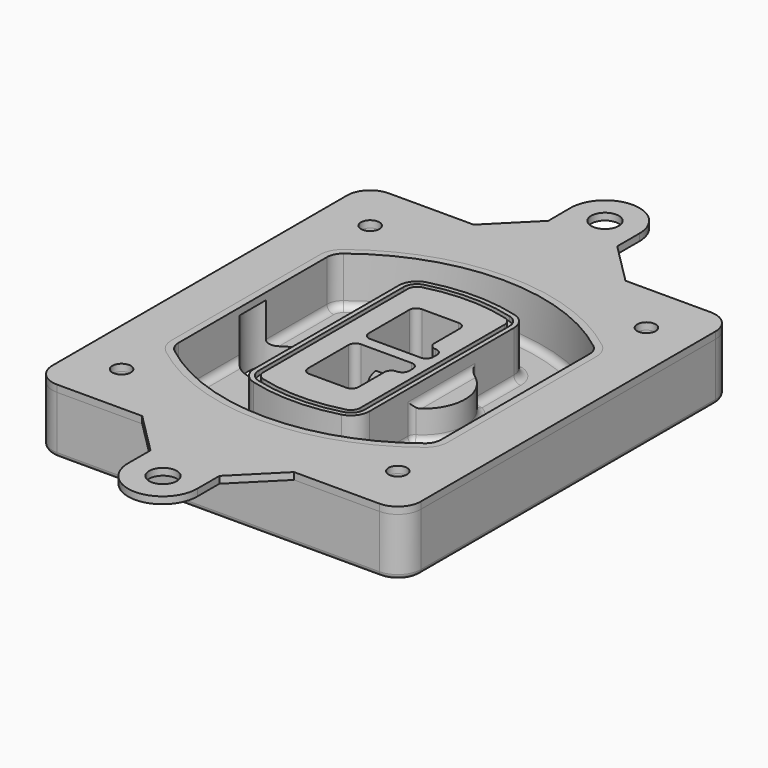
from build123d import *

# Parameters (mm, degrees)
F0_R      = 4
F1_DEPTH  = 25
F2_DEPTH  = 3
F3_DEPTH  = 18
F5_DEPTH  = 21
F6_DEPTH  = 2
F8_DEPTH  = 20
F9_DEPTH  = 16
F10_DEPTH = 25
F7_R      = 6
F7_R_2    = 4
F11_DEPTH = 6
F13_DEPTH = 9
F14_R     = 3
F15_R     = 2
F16_R     = 4
F16_R_2   = 6
F17_DEPTH = 3


with BuildPart() as f1:
    # F0 (on Top) → F1 (new body)
    with BuildSketch(Plane.XY):
        with BuildLine():
            ThreePointArc((-80, -80), (-77.0710678119, -87.0710678119), (-70, -90))
            Line((-70, -90), (70, -90))
            ThreePointArc((70, -90), (77.0710678119, -87.0710678119), (80, -80))
            Line((80, -80), (80, 80))
            ThreePointArc((80, 80), (77.0710678119, 87.0710678119), (70, 90))
            Line((70, 90), (-70, 90))
            ThreePointArc((-70, 90), (-77.0710678119, 87.0710678119), (-80, 80))
            Line((-80, 80), (-80, -80))
        make_face()
        with Locations((-60, -67.5)):
            Circle(F0_R, mode=Mode.SUBTRACT)
        with Locations((60, -67.5)):
            Circle(F0_R, mode=Mode.SUBTRACT)
        with Locations((-60, 67.5)):
            Circle(F0_R, mode=Mode.SUBTRACT)
        with BuildLine():
            ThreePointArc((-64, 40.2934422872), (-62.5820384798, 46.4328484224), (-58.6153846154, 51.3286200352))
            ThreePointArc((-58.6153846154, 51.3286200352), (0, 71.5), (58.6153846154, 51.3286200352))
            ThreePointArc((58.6153846154, 51.3286200352), (62.5820384798, 46.4328484224), (64, 40.2934422872))
            Line((64, 40.2934422872), (64, -40.2934422872))
            ThreePointArc((64, -40.2934422872), (62.5820384798, -46.4328484224), (58.6153846154, -51.3286200352))
            ThreePointArc((58.6153846154, -51.3286200352), (0, -71.5), (-58.6153846154, -51.3286200352))
            ThreePointArc((-58.6153846154, -51.3286200352), (-62.5820384798, -46.4328484224), (-64, -40.2934422872))
            Line((-64, -40.2934422872), (-64, 40.2934422872))
        make_face(mode=Mode.SUBTRACT)
        with Locations((60, 67.5)):
            Circle(F0_R, mode=Mode.SUBTRACT)
        with BuildLine():
            ThreePointArc((58.6153846154, 51.3286200352), (0, 71.5), (-58.6153846154, 51.3286200352))
            ThreePointArc((-58.6153846154, 51.3286200352), (-62.5820384798, 46.4328484224), (-64, 40.2934422872))
            Line((-64, 40.2934422872), (-64, -40.2934422872))
            ThreePointArc((-64, -40.2934422872), (-62.5820384798, -46.4328484224), (-58.6153846154, -51.3286200352))
            ThreePointArc((-58.6153846154, -51.3286200352), (0, -71.5), (58.6153846154, -51.3286200352))
            ThreePointArc((58.6153846154, -51.3286200352), (62.5820384798, -46.4328484224), (64, -40.2934422872))
            Line((64, -40.2934422872), (64, 40.2934422872))
            ThreePointArc((64, 40.2934422872), (62.5820384798, 46.4328484224), (58.6153846154, 51.3286200352))
        make_face()
        with BuildLine():
            Line((-60, -40.2934422872), (-60, 40.2934422872))
            ThreePointArc((-60, 40.2934422872), (-58.9871703427, 44.6787323838), (-56.1538461538, 48.1757121072))
            ThreePointArc((-56.1538461538, 48.1757121072), (0, 67.5), (56.1538461538, 48.1757121072))
            ThreePointArc((56.1538461538, 48.1757121072), (58.9871703427, 44.6787323838), (60, 40.2934422872))
            Line((60, 40.2934422872), (60, -40.2934422872))
            ThreePointArc((60, -40.2934422872), (58.9871703427, -44.6787323838), (56.1538461538, -48.1757121072))
            ThreePointArc((56.1538461538, -48.1757121072), (0, -67.5), (-56.1538461538, -48.1757121072))
            ThreePointArc((-56.1538461538, -48.1757121072), (-58.9871703427, -44.6787323838), (-60, -40.2934422872))
        make_face(mode=Mode.SUBTRACT)
        with BuildLine():
            ThreePointArc((-56.1538461538, 48.1757121072), (-58.9871703427, 44.6787323838), (-60, 40.2934422872))
            Line((-60, 40.2934422872), (-60, -40.2934422872))
            ThreePointArc((-60, -40.2934422872), (-58.9871703427, -44.6787323838), (-56.1538461538, -48.1757121072))
            ThreePointArc((-56.1538461538, -48.1757121072), (0, -67.5), (56.1538461538, -48.1757121072))
            ThreePointArc((56.1538461538, -48.1757121072), (58.9871703427, -44.6787323838), (60, -40.2934422872))
            Line((60, -40.2934422872), (60, 40.2934422872))
            ThreePointArc((60, 40.2934422872), (58.9871703427, 44.6787323838), (56.1538461538, 48.1757121072))
            ThreePointArc((56.1538461538, 48.1757121072), (0, 67.5), (-56.1538461538, 48.1757121072))
        make_face()
        with BuildLine():
            ThreePointArc((54.3076923077, 45.8110311612), (56.2910192399, 43.3631453548), (57, 40.2934422872))
            Line((57, 40.2934422872), (57, -40.2934422872))
            ThreePointArc((57, -40.2934422872), (56.2910192399, -43.3631453548), (54.3076923077, -45.8110311612))
            ThreePointArc((54.3076923077, -45.8110311612), (0, -64.5), (-54.3076923077, -45.8110311612))
            ThreePointArc((-54.3076923077, -45.8110311612), (-56.2910192399, -43.3631453548), (-57, -40.2934422872))
            Line((-57, -40.2934422872), (-57, 40.2934422872))
            ThreePointArc((-57, 40.2934422872), (-56.2910192399, 43.3631453548), (-54.3076923077, 45.8110311612))
            ThreePointArc((-54.3076923077, 45.8110311612), (0, 64.5), (54.3076923077, 45.8110311612))
        make_face(mode=Mode.SUBTRACT)
        with BuildLine():
            Line((57, -40.2934422872), (57, 40.2934422872))
            ThreePointArc((57, 40.2934422872), (56.2910192399, 43.3631453548), (54.3076923077, 45.8110311612))
            ThreePointArc((54.3076923077, 45.8110311612), (0, 64.5), (-54.3076923077, 45.8110311612))
            ThreePointArc((-54.3076923077, 45.8110311612), (-56.2910192399, 43.3631453548), (-57, 40.2934422872))
            Line((-57, 40.2934422872), (-57, -40.2934422872))
            ThreePointArc((-57, -40.2934422872), (-56.2910192399, -43.3631453548), (-54.3076923077, -45.8110311612))
            ThreePointArc((-54.3076923077, -45.8110311612), (0, -64.5), (54.3076923077, -45.8110311612))
            ThreePointArc((54.3076923077, -45.8110311612), (56.2910192399, -43.3631453548), (57, -40.2934422872))
        make_face()
    extrude(amount=-F1_DEPTH)

    # F0 (on Top) → F2 (join)
    with BuildSketch(Plane.XY):
        with BuildLine():
            ThreePointArc((-56.1538461538, 48.1757121072), (-58.9871703427, 44.6787323838), (-60, 40.2934422872))
            Line((-60, 40.2934422872), (-60, -40.2934422872))
            ThreePointArc((-60, -40.2934422872), (-58.9871703427, -44.6787323838), (-56.1538461538, -48.1757121072))
            ThreePointArc((-56.1538461538, -48.1757121072), (0, -67.5), (56.1538461538, -48.1757121072))
            ThreePointArc((56.1538461538, -48.1757121072), (58.9871703427, -44.6787323838), (60, -40.2934422872))
            Line((60, -40.2934422872), (60, 40.2934422872))
            ThreePointArc((60, 40.2934422872), (58.9871703427, 44.6787323838), (56.1538461538, 48.1757121072))
            ThreePointArc((56.1538461538, 48.1757121072), (0, 67.5), (-56.1538461538, 48.1757121072))
        make_face()
        with BuildLine():
            ThreePointArc((54.3076923077, 45.8110311612), (56.2910192399, 43.3631453548), (57, 40.2934422872))
            Line((57, 40.2934422872), (57, -40.2934422872))
            ThreePointArc((57, -40.2934422872), (56.2910192399, -43.3631453548), (54.3076923077, -45.8110311612))
            ThreePointArc((54.3076923077, -45.8110311612), (0, -64.5), (-54.3076923077, -45.8110311612))
            ThreePointArc((-54.3076923077, -45.8110311612), (-56.2910192399, -43.3631453548), (-57, -40.2934422872))
            Line((-57, -40.2934422872), (-57, 40.2934422872))
            ThreePointArc((-57, 40.2934422872), (-56.2910192399, 43.3631453548), (-54.3076923077, 45.8110311612))
            ThreePointArc((-54.3076923077, 45.8110311612), (0, 64.5), (54.3076923077, 45.8110311612))
        make_face(mode=Mode.SUBTRACT)
    extrude(amount=F2_DEPTH)

    # F0 (on Top) → F3 (cut)
    with BuildSketch(Plane.XY):
        with BuildLine():
            Line((57, -40.2934422872), (57, 40.2934422872))
            ThreePointArc((57, 40.2934422872), (56.2910192399, 43.3631453548), (54.3076923077, 45.8110311612))
            ThreePointArc((54.3076923077, 45.8110311612), (0, 64.5), (-54.3076923077, 45.8110311612))
            ThreePointArc((-54.3076923077, 45.8110311612), (-56.2910192399, 43.3631453548), (-57, 40.2934422872))
            Line((-57, 40.2934422872), (-57, -40.2934422872))
            ThreePointArc((-57, -40.2934422872), (-56.2910192399, -43.3631453548), (-54.3076923077, -45.8110311612))
            ThreePointArc((-54.3076923077, -45.8110311612), (0, -64.5), (54.3076923077, -45.8110311612))
            ThreePointArc((54.3076923077, -45.8110311612), (56.2910192399, -43.3631453548), (57, -40.2934422872))
        make_face()
    extrude(amount=-F3_DEPTH, mode=Mode.SUBTRACT)

    # F4 (on face) → F5 (join, through all)
    with BuildSketch(Plane.XY.offset(3)):
        with BuildLine():
            ThreePointArc((-25, -39.2465276821), (-23.3511545998, -44.1109737193), (-19.0842911877, -46.9702398883))
            ThreePointArc((-19.0842911877, -46.9702398883), (0, -49.5), (19.0842911877, -46.9702398883))
            ThreePointArc((19.0842911877, -46.9702398883), (23.3511545998, -44.1109737193), (25, -39.2465276821))
            Line((25, -39.2465276821), (25, 39.2465276821))
            ThreePointArc((25, 39.2465276821), (23.3511545998, 44.1109737193), (19.0842911877, 46.9702398883))
            ThreePointArc((19.0842911877, 46.9702398883), (0, 49.5), (-19.0842911877, 46.9702398883))
            ThreePointArc((-19.0842911877, 46.9702398883), (-23.3511545998, 44.1109737193), (-25, 39.2465276821))
            Line((-25, 39.2465276821), (-25, -39.2465276821))
        make_face()
        with BuildLine():
            ThreePointArc((18.5632183908, 45.0393118368), (21.7633659499, 42.89486221), (23, 39.2465276821))
            Line((23, 39.2465276821), (23, -39.2465276821))
            ThreePointArc((23, -39.2465276821), (21.7633659499, -42.89486221), (18.5632183908, -45.0393118368))
            ThreePointArc((18.5632183908, -45.0393118368), (0, -47.5), (-18.5632183908, -45.0393118368))
            ThreePointArc((-18.5632183908, -45.0393118368), (-21.7633659499, -42.89486221), (-23, -39.2465276821))
            Line((-23, -39.2465276821), (-23, 39.2465276821))
            ThreePointArc((-23, 39.2465276821), (-21.7633659499, 42.89486221), (-18.5632183908, 45.0393118368))
            ThreePointArc((-18.5632183908, 45.0393118368), (0, 47.5), (18.5632183908, 45.0393118368))
        make_face(mode=Mode.SUBTRACT)
        with BuildLine():
            Line((23, -39.2465276821), (23, 39.2465276821))
            ThreePointArc((23, 39.2465276821), (21.7633659499, 42.89486221), (18.5632183908, 45.0393118368))
            ThreePointArc((18.5632183908, 45.0393118368), (0, 47.5), (-18.5632183908, 45.0393118368))
            ThreePointArc((-18.5632183908, 45.0393118368), (-21.7633659499, 42.89486221), (-23, 39.2465276821))
            Line((-23, 39.2465276821), (-23, -39.2465276821))
            ThreePointArc((-23, -39.2465276821), (-21.7633659499, -42.89486221), (-18.5632183908, -45.0393118368))
            ThreePointArc((-18.5632183908, -45.0393118368), (0, -47.5), (18.5632183908, -45.0393118368))
            ThreePointArc((18.5632183908, -45.0393118368), (21.7633659499, -42.89486221), (23, -39.2465276821))
        make_face()
        with BuildLine():
            ThreePointArc((18.0421455939, 43.1083837852), (20.1755772999, 41.6787507007), (21, 39.2465276821))
            Line((21, 39.2465276821), (21, -39.2465276821))
            ThreePointArc((21, -39.2465276821), (20.1755772999, -41.6787507007), (18.0421455939, -43.1083837852))
            ThreePointArc((18.0421455939, -43.1083837852), (0, -45.5), (-18.0421455939, -43.1083837852))
            ThreePointArc((-18.0421455939, -43.1083837852), (-20.1755772999, -41.6787507007), (-21, -39.2465276821))
            Line((-21, -39.2465276821), (-21, 39.2465276821))
            ThreePointArc((-21, 39.2465276821), (-20.1755772999, 41.6787507007), (-18.0421455939, 43.1083837852))
            ThreePointArc((-18.0421455939, 43.1083837852), (0, 45.5), (18.0421455939, 43.1083837852))
        make_face(mode=Mode.SUBTRACT)
        with BuildLine():
            Line((21, -39.2465276821), (21, 39.2465276821))
            ThreePointArc((21, 39.2465276821), (20.1755772999, 41.6787507007), (18.0421455939, 43.1083837852))
            ThreePointArc((18.0421455939, 43.1083837852), (0, 45.5), (-18.0421455939, 43.1083837852))
            ThreePointArc((-18.0421455939, 43.1083837852), (-20.1755772999, 41.6787507007), (-21, 39.2465276821))
            Line((-21, 39.2465276821), (-21, -39.2465276821))
            ThreePointArc((-21, -39.2465276821), (-20.1755772999, -41.6787507007), (-18.0421455939, -43.1083837852))
            ThreePointArc((-18.0421455939, -43.1083837852), (0, -45.5), (18.0421455939, -43.1083837852))
            ThreePointArc((18.0421455939, -43.1083837852), (20.1755772999, -41.6787507007), (21, -39.2465276821))
        make_face()
        with BuildLine():
            Line((-8, -2.5), (14, -2.5))
            ThreePointArc((14, -2.5), (16.1213203436, -3.3786796564), (17, -5.5))
            Line((17, -5.5), (17, -7.5))
            ThreePointArc((17, -7.5), (16.1213203436, -9.6213203436), (14, -10.5))
            ThreePointArc((14, -10.5), (11.8786796564, -11.3786796564), (11, -13.5))
            Line((11, -13.5), (11, -27.5))
            ThreePointArc((11, -27.5), (10.1213203436, -29.6213203436), (8, -30.5))
            Line((8, -30.5), (-8, -30.5))
            ThreePointArc((-8, -30.5), (-10.1213203436, -29.6213203436), (-11, -27.5))
            Line((-11, -27.5), (-11, -5.5))
            ThreePointArc((-11, -5.5), (-10.1213203436, -3.3786796564), (-8, -2.5))
        make_face(mode=Mode.SUBTRACT)
        with BuildLine():
            ThreePointArc((-8, 2.5), (-10.1213203436, 3.3786796564), (-11, 5.5))
            Line((-11, 5.5), (-11, 27.5))
            ThreePointArc((-11, 27.5), (-10.1213203436, 29.6213203436), (-8, 30.5))
            Line((-8, 30.5), (8, 30.5))
            ThreePointArc((8, 30.5), (10.1213203436, 29.6213203436), (11, 27.5))
            Line((11, 27.5), (11, 13.5))
            ThreePointArc((11, 13.5), (11.8786796564, 11.3786796564), (14, 10.5))
            ThreePointArc((14, 10.5), (16.1213203436, 9.6213203436), (17, 7.5))
            Line((17, 7.5), (17, 5.5))
            ThreePointArc((17, 5.5), (16.1213203436, 3.3786796564), (14, 2.5))
            Line((14, 2.5), (-8, 2.5))
        make_face(mode=Mode.SUBTRACT)
    extrude(amount=-F5_DEPTH)

    # F4 (on face) → F6 (cut)
    with BuildSketch(Plane.XY.offset(3)):
        with BuildLine():
            Line((23, -39.2465276821), (23, 39.2465276821))
            ThreePointArc((23, 39.2465276821), (21.7633659499, 42.89486221), (18.5632183908, 45.0393118368))
            ThreePointArc((18.5632183908, 45.0393118368), (0, 47.5), (-18.5632183908, 45.0393118368))
            ThreePointArc((-18.5632183908, 45.0393118368), (-21.7633659499, 42.89486221), (-23, 39.2465276821))
            Line((-23, 39.2465276821), (-23, -39.2465276821))
            ThreePointArc((-23, -39.2465276821), (-21.7633659499, -42.89486221), (-18.5632183908, -45.0393118368))
            ThreePointArc((-18.5632183908, -45.0393118368), (0, -47.5), (18.5632183908, -45.0393118368))
            ThreePointArc((18.5632183908, -45.0393118368), (21.7633659499, -42.89486221), (23, -39.2465276821))
        make_face()
        with BuildLine():
            ThreePointArc((18.0421455939, 43.1083837852), (20.1755772999, 41.6787507007), (21, 39.2465276821))
            Line((21, 39.2465276821), (21, -39.2465276821))
            ThreePointArc((21, -39.2465276821), (20.1755772999, -41.6787507007), (18.0421455939, -43.1083837852))
            ThreePointArc((18.0421455939, -43.1083837852), (0, -45.5), (-18.0421455939, -43.1083837852))
            ThreePointArc((-18.0421455939, -43.1083837852), (-20.1755772999, -41.6787507007), (-21, -39.2465276821))
            Line((-21, -39.2465276821), (-21, 39.2465276821))
            ThreePointArc((-21, 39.2465276821), (-20.1755772999, 41.6787507007), (-18.0421455939, 43.1083837852))
            ThreePointArc((-18.0421455939, 43.1083837852), (0, 45.5), (18.0421455939, 43.1083837852))
        make_face(mode=Mode.SUBTRACT)
    extrude(amount=-F6_DEPTH, mode=Mode.SUBTRACT)

    # F7 (on face) → F8 (join)
    with BuildSketch(Plane(origin=(0, 0, -25), x_dir=(1, 0, 0), z_dir=(0, 0, -1))):
        with BuildLine():
            ThreePointArc((3.28842436, 0), (16.7567035675, 13.4682792075), (30.224982775, 0))
            Line((30.224982775, 0), (35.224982775, 0))
            ThreePointArc((35.224982775, 0), (16.7567035675, 18.4682792075), (-1.71157564, 0))
            Line((-1.71157564, 0), (3.28842436, 0))
        make_face()
        with BuildLine():
            Line((3.28842436, 0), (30.224982775, 0))
            ThreePointArc((30.224982775, 0), (16.7567035675, 13.4682792075), (3.28842436, 0))
        make_face()
        with BuildLine():
            ThreePointArc((3.28842436, 0), (16.7567035675, -13.4682792075), (30.224982775, 0))
            Line((30.224982775, 0), (3.28842436, 0))
        make_face()
        with BuildLine():
            Line((35.224982775, 0), (30.224982775, 0))
            ThreePointArc((30.224982775, 0), (16.7567035675, -13.4682792075), (3.28842436, 0))
            Line((3.28842436, 0), (-1.71157564, 0))
            ThreePointArc((-1.71157564, 0), (16.7567035675, -18.4682792075), (35.224982775, 0))
        make_face()
    extrude(amount=-F8_DEPTH)

    # F7 (on face) → F9 (cut)
    with BuildSketch(Plane(origin=(0, 0, -25), x_dir=(1, 0, 0), z_dir=(0, 0, -1))):
        with BuildLine():
            Line((3.28842436, 0), (30.224982775, 0))
            ThreePointArc((30.224982775, 0), (16.7567035675, 13.4682792075), (3.28842436, 0))
        make_face()
        with BuildLine():
            ThreePointArc((3.28842436, 0), (16.7567035675, -13.4682792075), (30.224982775, 0))
            Line((30.224982775, 0), (3.28842436, 0))
        make_face()
    extrude(amount=-F9_DEPTH, mode=Mode.SUBTRACT)

    # F7 (on face) → F10 (cut)
    with BuildSketch(Plane(origin=(0, 0, -25), x_dir=(1, 0, 0), z_dir=(0, 0, -1))):
        with BuildLine():
            Line((-59.0318229325, 0), (-32.0952645175, 0))
            ThreePointArc((-32.0952645175, 0), (-45.563543725, 13.4682792075), (-59.0318229325, 0))
        make_face()
        with BuildLine():
            ThreePointArc((-59.0318229325, 0), (-45.563543725, -13.4682792075), (-32.0952645175, 0))
            Line((-32.0952645175, 0), (-59.0318229325, 0))
        make_face()
    extrude(amount=-F10_DEPTH, mode=Mode.SUBTRACT)

    # F7 (on face) → F11 (cut)
    with BuildSketch(Plane(origin=(0, 0, -25), x_dir=(1, 0, 0), z_dir=(0, 0, -1))):
        with Locations((60, -67.5)):
            Circle(F7_R)
        with Locations((60, -67.5)):
            Circle(F7_R_2, mode=Mode.SUBTRACT)
        with Locations((60, -67.5)):
            Circle(F7_R)
        with Locations((60, -67.5)):
            Circle(F7_R_2, mode=Mode.SUBTRACT)
        with Locations((-60, -67.5)):
            Circle(F7_R)
        with Locations((-60, -67.5)):
            Circle(F7_R_2, mode=Mode.SUBTRACT)
        with Locations((-60, -67.5)):
            Circle(F7_R)
        with Locations((-60, -67.5)):
            Circle(F7_R_2, mode=Mode.SUBTRACT)
        with Locations((-60, 67.5)):
            Circle(F7_R)
        with Locations((-60, 67.5)):
            Circle(F7_R_2, mode=Mode.SUBTRACT)
        with Locations((-60, 67.5)):
            Circle(F7_R)
        with Locations((-60, 67.5)):
            Circle(F7_R_2, mode=Mode.SUBTRACT)
        with Locations((60, 67.5)):
            Circle(F7_R)
        with Locations((60, 67.5)):
            Circle(F7_R_2, mode=Mode.SUBTRACT)
        with Locations((60, 67.5)):
            Circle(F7_R)
        with Locations((60, 67.5)):
            Circle(F7_R_2, mode=Mode.SUBTRACT)
    extrude(amount=-F11_DEPTH, mode=Mode.SUBTRACT)

    # F12 (on face) → F13 (cut, through all)
    with BuildSketch(Plane(origin=(0, 0, -9), x_dir=(1, 0, 0), z_dir=(0, 0, -1))):
        with BuildLine():
            Line((11, 13.5), (11, 17.5481537753))
            ThreePointArc((11, 17.5481537753), (2.5696536419, 11.8239143813), (-1.5415842455, 2.5))
            Line((-1.5415842455, 2.5), (3.5224848595, 2.5))
            ThreePointArc((3.5224848595, 2.5), (6.1857188154, 8.3455872281), (11.2536447004, 12.2927168648))
            ThreePointArc((11.2536447004, 12.2927168648), (11.0640958889, 12.8831798879), (11, 13.5))
        make_face()
        with BuildLine():
            ThreePointArc((11.2536447004, -12.2927168648), (6.1857188154, -8.3455872281), (3.5224848595, -2.5))
            Line((3.5224848595, -2.5), (-1.5415842455, -2.5))
            ThreePointArc((-1.5415842455, -2.5), (2.5696536419, -11.8239143813), (11, -17.5481537753))
            Line((11, -17.5481537753), (11, -13.5))
            ThreePointArc((11, -13.5), (11.0640958889, -12.8831798879), (11.2536447004, -12.2927168648))
        make_face()
        with BuildLine():
            ThreePointArc((11.2536447004, 12.2927168648), (6.1857188154, 8.3455872281), (3.5224848595, 2.5))
            Line((3.5224848595, 2.5), (14, 2.5))
            ThreePointArc((14, 2.5), (16.1213203436, 3.3786796564), (17, 5.5))
            Line((17, 5.5), (17, 7.5))
            ThreePointArc((17, 7.5), (16.1213203436, 9.6213203436), (14, 10.5))
            ThreePointArc((14, 10.5), (12.3601599782, 10.9878446101), (11.2536447004, 12.2927168648))
        make_face()
        with BuildLine():
            Line((14, -2.5), (3.5224848595, -2.5))
            ThreePointArc((3.5224848595, -2.5), (6.1857188154, -8.3455872281), (11.2536447004, -12.2927168648))
            ThreePointArc((11.2536447004, -12.2927168648), (12.3601599782, -10.9878446101), (14, -10.5))
            ThreePointArc((14, -10.5), (16.1213203436, -9.6213203436), (17, -7.5))
            Line((17, -7.5), (17, -5.5))
            ThreePointArc((17, -5.5), (16.1213203436, -3.3786796564), (14, -2.5))
        make_face()
    extrude(amount=F13_DEPTH, mode=Mode.SUBTRACT)

    # F14
    f14_edges = [f1.edges().sort_by_distance(p)[0] for p in [
        (-57, -23.703476, -18),
        (-57, 23.703476, -18),
        (25, 0, -5),
        (25, 16.526506, -11.5),
        (25, -16.526506, -11.5),
        (25, -27.886517, -18),
        (35.224983, 0, -18),
    ]]
    fillet(f14_edges, radius=F14_R)

    # F15
    f15_edges = [f1.edges().sort_by_distance(p)[0] for p in [
        (0, -90, -25),
    ]]
    fillet(f15_edges, radius=F15_R)


with BuildPart() as f17:
    # F16 (on face) → F17 (new body, through all)
    with BuildSketch(Plane.XY):
        with BuildLine():
            Line((70, 90), (32.8991053584, 90))
            Line((32.8991053584, 90), (-33.0300745044, 90))
            Line((-33.0300745044, 90), (-70, 90))
            ThreePointArc((-70, 90), (-77.0710678119, 87.0710678119), (-80, 80))
            Line((-80, 80), (-80, -80))
            ThreePointArc((-80, -80), (-77.0710678119, -87.0710678119), (-70, -90))
            Line((-70, -90), (-33.0300745044, -90))
            Line((-33.0300745044, -90), (32.8991053584, -90))
            Line((32.8991053584, -90), (70, -90))
            ThreePointArc((70, -90), (77.0710678119, -87.0710678119), (80, -80))
            Line((80, -80), (80, 80))
            ThreePointArc((80, 80), (77.0710678119, 87.0710678119), (70, 90))
        make_face()
        with Locations((-60, -67.5)):
            Circle(F16_R, mode=Mode.SUBTRACT)
        with Locations((60, -67.5)):
            Circle(F16_R, mode=Mode.SUBTRACT)
        with Locations((-60, 67.5)):
            Circle(F16_R, mode=Mode.SUBTRACT)
        with BuildLine():
            ThreePointArc((-60, 40.2934422872), (-58.9871703427, 44.6787323838), (-56.1538461538, 48.1757121072))
            ThreePointArc((-56.1538461538, 48.1757121072), (0, 67.5), (56.1538461538, 48.1757121072))
            ThreePointArc((56.1538461538, 48.1757121072), (58.9871703427, 44.6787323838), (60, 40.2934422872))
            Line((60, 40.2934422872), (60, -40.2934422872))
            ThreePointArc((60, -40.2934422872), (58.9871703427, -44.6787323838), (56.1538461538, -48.1757121072))
            ThreePointArc((56.1538461538, -48.1757121072), (0, -67.5), (-56.1538461538, -48.1757121072))
            ThreePointArc((-56.1538461538, -48.1757121072), (-58.9871703427, -44.6787323838), (-60, -40.2934422872))
            Line((-60, -40.2934422872), (-60, 40.2934422872))
        make_face(mode=Mode.SUBTRACT)
        with Locations((60, 67.5)):
            Circle(F16_R, mode=Mode.SUBTRACT)
        with BuildLine():
            Line((14.8991053584, 108), (14.8991053584, 120))
            ThreePointArc((14.8991053584, 120), (-0.1006372091, 135.087880082), (-15.1003797766, 120))
            Line((-15.1003797766, 120), (-15.0300745044, 108))
            Line((-15.0300745044, 108), (-33.0300745044, 90))
            Line((-33.0300745044, 90), (32.8991053584, 90))
            Line((32.8991053584, 90), (14.8991053584, 108))
        make_face()
        with Locations((0, 120)):
            Circle(F16_R_2, mode=Mode.SUBTRACT)
        with BuildLine():
            Line((14.8991053584, -108), (32.8991053584, -90))
            Line((32.8991053584, -90), (-33.0300745044, -90))
            Line((-33.0300745044, -90), (-15.0300745044, -108))
            Line((-15.0300745044, -108), (-15.1003797766, -120))
            ThreePointArc((-15.1003797766, -120), (-0.1006372091, -135.087880082), (14.8991053584, -120))
            Line((14.8991053584, -120), (14.8991053584, -108))
        make_face()
        with Locations((0, -120)):
            Circle(F16_R_2, mode=Mode.SUBTRACT)
    extrude(amount=F17_DEPTH)


solid = Compound([f1.part, f17.part])
